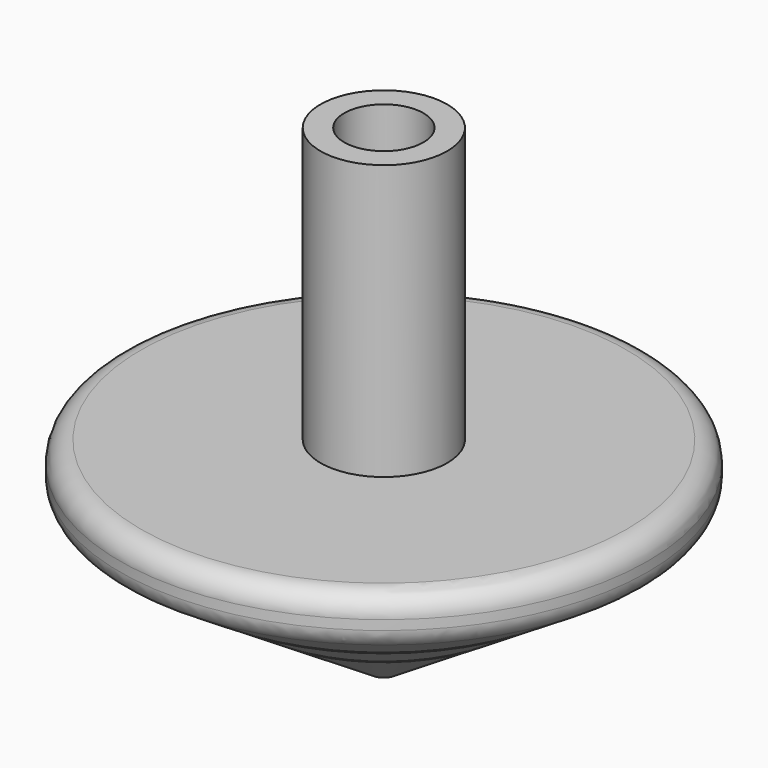
from build123d import *

# Parameters (mm, degrees)
F2_R      = 2.54
F3_R      = 1.5875
F4_DEPTH  = 8.5725
F5_R      = 4.7625
F6_DEPTH  = 42.545
F7_R      = 17.565268
F7_R_2    = 15.226775
F8_DEPTH  = 10.16
F9_R      = 24.251391
F9_R_2    = 23.10866
F10_DEPTH = 15.24


with BuildPart() as f1:
    # F0 (on Front) → F1 (revolve)
    with BuildSketch(Plane.XZ):
        Polygon((0, 58.42), (0, 0), (31.75, 20.32), (31.75, 25.4), (7.62, 25.4), (7.62, 58.42), align=None)
    revolve(axis=Axis((0, 0, 29.21), (0, 0, -1)))

    # F2
    f2_edges = [f1.edges().sort_by_distance(p)[0] for p in [
        (-31.75, 0, 20.32),
        (-31.75, 0, 25.4),
        (31.75, 0, 22.86),
    ]]
    fillet(f2_edges, radius=F2_R)

    # F3 (on Top) → F4 (cut)
    with BuildSketch(Plane.XY):
        Circle(F3_R)
    extrude(amount=F4_DEPTH, mode=Mode.SUBTRACT)

    # F5 (on face) → F6 (cut)
    with BuildSketch(Plane.XY.offset(58.42)):
        Circle(F5_R)
    extrude(amount=-F6_DEPTH, mode=Mode.SUBTRACT)

    # F7 (on Top) → F8 (cut)
    with BuildSketch(Plane.XY):
        Circle(F7_R)
        Circle(F7_R_2, mode=Mode.SUBTRACT)
    extrude(amount=F8_DEPTH, mode=Mode.SUBTRACT)

    # F9 (on Top) → F10 (cut)
    with BuildSketch(Plane.XY):
        Circle(F9_R)
        Circle(F9_R_2, mode=Mode.SUBTRACT)
    extrude(amount=F10_DEPTH, mode=Mode.SUBTRACT)


solid = f1.part
